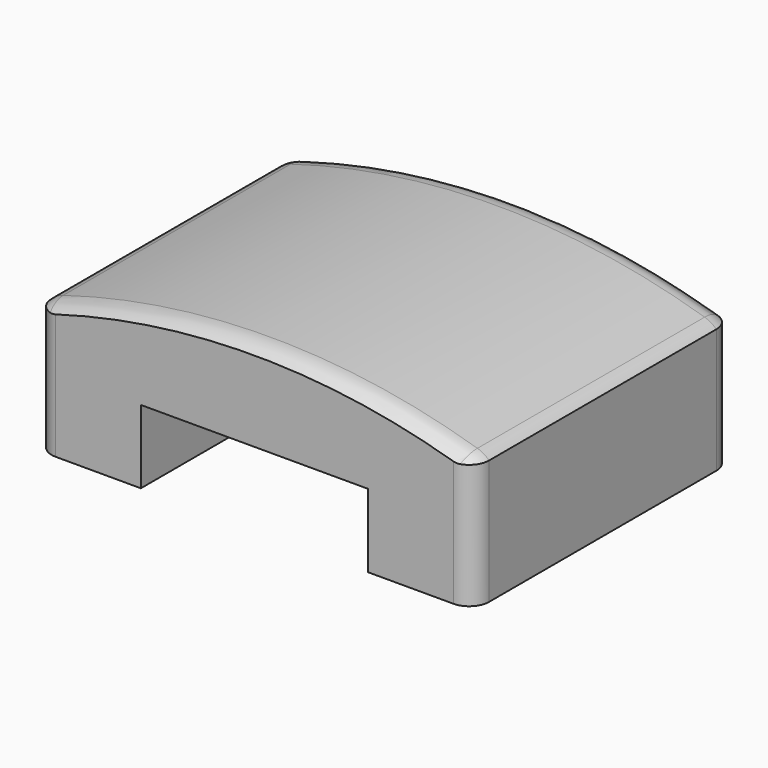
from build123d import *

# Parameters (mm, degrees)
F1_DEPTH = 15
F2_W     = 20
F2_H     = 55.2012861603
F3_DEPTH = 13
F4_R     = 2
F5_DEPTH = 10
F6_R     = 2.5
F8_DEPTH = 14.259891975
F9_DEPTH = 1.2510001


with BuildPart() as f1:
    # F0 (on Front) → F1 (new body, symmetric)
    with BuildSketch(Plane.XZ):
        with BuildLine():
            Line((20, 48.741108125), (20, 59.741108125))
            ThreePointArc((20, 59.741108125), (0, 63), (-20, 59.741108125))
            Line((-20, 59.741108125), (-20, 48.741108125))
            Line((-20, 48.741108125), (20, 48.741108125))
        make_face()
    extrude(amount=F1_DEPTH, both=True)

    # F2 (on Front) → F3 (cut, symmetric)
    with BuildSketch(Plane.XZ):
        with Locations((0, 27.6006430802)):
            Rectangle(F2_W, F2_H)
    extrude(amount=F3_DEPTH, both=True, mode=Mode.SUBTRACT)

    # F4 (on face) → F5 (cut)
    with BuildSketch(Plane(origin=(0, 0, 48.741108125), x_dir=(1, 0, 0), z_dir=(0, 0, -1))):
        with Locations((-15, 0)):
            Circle(F4_R)
        with Locations((15, 0)):
            Circle(F4_R)
    extrude(amount=-F5_DEPTH, mode=Mode.SUBTRACT)

    # F6
    f6_edges = [f1.edges().sort_by_distance(p)[0] for p in [
        (-20, -15, 54.241108),
        (-20, 15, 54.241108),
        (20, -15, 54.241108),
        (20, 15, 54.241108),
        (20, 0, 59.741108),
        (0, -15, 63),
        (0, 15, 63),
        (-20, 0, 59.741108),
    ]]
    fillet(f6_edges, radius=F6_R)

    # F7 (on face) → F8 (cut, through all)
    with BuildSketch(Plane(origin=(0, 0, 48.741108125), x_dir=(1, 0, 0), z_dir=(0, 0, -1))):
        with BuildLine():
            Line((17.5, 15), (-17.5, 15))
            ThreePointArc((-17.5, 15), (-19.267766953, 14.267766953), (-20, 12.5))
            Line((-20, 12.5), (-20, -12.5))
            ThreePointArc((-20, -12.5), (-19.267766953, -14.267766953), (-17.5, -15))
            Line((-17.5, -15), (17.5, -15))
            ThreePointArc((17.5, -15), (19.267766953, -14.267766953), (20, -12.5))
            Line((20, -12.5), (20, 12.5))
            ThreePointArc((20, 12.5), (19.267766953, 14.267766953), (17.5, 15))
        make_face()
        with BuildLine():
            Line((-19.25, -12.5), (-19.25, 12.5))
            ThreePointArc((-19.25, 12.5), (-18.7374368671, 13.7374368671), (-17.5, 14.25))
            Line((-17.5, 14.25), (17.5, 14.25))
            ThreePointArc((17.5, 14.25), (18.7374368671, 13.7374368671), (19.25, 12.5))
            Line((19.25, 12.5), (19.25, -12.5))
            ThreePointArc((19.25, -12.5), (18.7374368671, -13.7374368671), (17.5, -14.25))
            Line((17.5, -14.25), (-17.5, -14.25))
            ThreePointArc((-17.5, -14.25), (-18.7374368671, -13.7374368671), (-19.25, -12.5))
        make_face(mode=Mode.SUBTRACT)
    extrude(amount=-F8_DEPTH, mode=Mode.SUBTRACT)

    # F9 (cut, through all): a face of the model
    f9_faces = [f1.faces().sort_by_distance(p)[0] for p in [
        (0, -13, 51.9711971427),
    ]]
    extrude(f9_faces, amount=-F9_DEPTH, mode=Mode.SUBTRACT)


solid = f1.part
